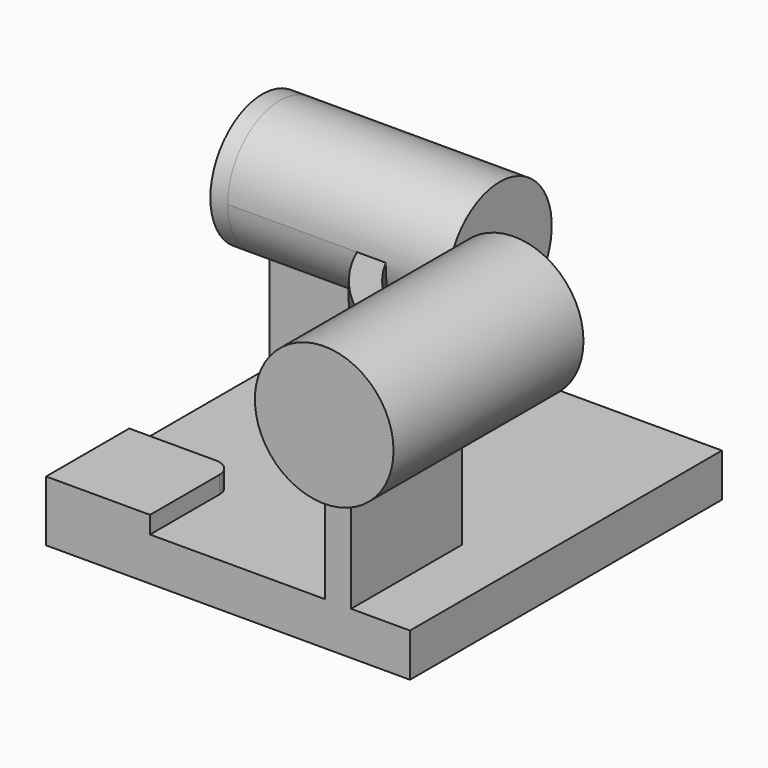
from build123d import *

# Parameters (mm, degrees)
F0_W          = 210
F0_H          = 225
F1_DEPTH      = 25
F3_DEPTH      = 95
F4_R          = 37.5
F5_DEPTH      = 10
F5_DEPTH_BACK = 127
F6_R          = 40
F7_DEPTH      = 10
F7_DEPTH_BACK = 127
F8_W          = 60
F8_H          = 60
F9_DEPTH      = 10
F10_R         = 10


with BuildPart() as f1:
    # F0 (on Top) → F1 (new body)
    with BuildSketch(Plane.XY):
        with Locations((-1.685321, 68.338609)):
            Rectangle(F0_W, F0_H)
    extrude(amount=F1_DEPTH)

    # F2 (on face) → F3 (join)
    with BuildSketch(Plane.XY.offset(25)):
        with BuildLine():
            Line((-26.685321, 131.838609), (-106.685321, 131.838609))
            Line((-106.685321, 131.838609), (-106.685321, 116.838609))
            Line((-106.685321, 116.838609), (-40.667138, 116.838609))
            ThreePointArc((-40.667138, 116.838609), (-9.174174, 53.349757), (54.314679, 21.856793))
            Line((54.314679, 21.856793), (54.314679, -44.161391))
            Line((54.314679, -44.161391), (69.314679, -44.161391))
            Line((69.314679, -44.161391), (69.314679, 35.838609))
            ThreePointArc((69.314679, 35.838609), (1.432428, 63.956358), (-26.685321, 131.838609))
        make_face()
    extrude(amount=F3_DEPTH)

    # F4 (on face) → F5 (join, two sides)
    with BuildSketch(Plane(origin=(-106.685321, 0, 0), x_dir=(0, -1, 0), z_dir=(-1, 0, 0))) as f5_sk:
        with Locations((-124.338609, 120)):
            Circle(F4_R)
    extrude(amount=F5_DEPTH)
    extrude(f5_sk.sketch, amount=-F5_DEPTH_BACK)

    # F6 (on face) → F7 (join, two sides)
    with BuildSketch(Plane.XZ.offset(44.161391)) as f7_sk:
        with Locations((61.814679, 120)):
            Circle(F6_R)
    extrude(amount=F7_DEPTH)
    extrude(f7_sk.sketch, amount=-F7_DEPTH_BACK)

    # F8 (on face) → F9 (join)
    with BuildSketch(Plane.XY.offset(25)):
        with Locations((-76.685321, -14.161391)):
            Rectangle(F8_W, F8_H)
    extrude(amount=F9_DEPTH)

    # F10
    f10_edges = [f1.edges().sort_by_distance(p)[0] for p in [
        (-46.685321, 15.838609, 30),
    ]]
    fillet(f10_edges, radius=F10_R)


solid = f1.part
